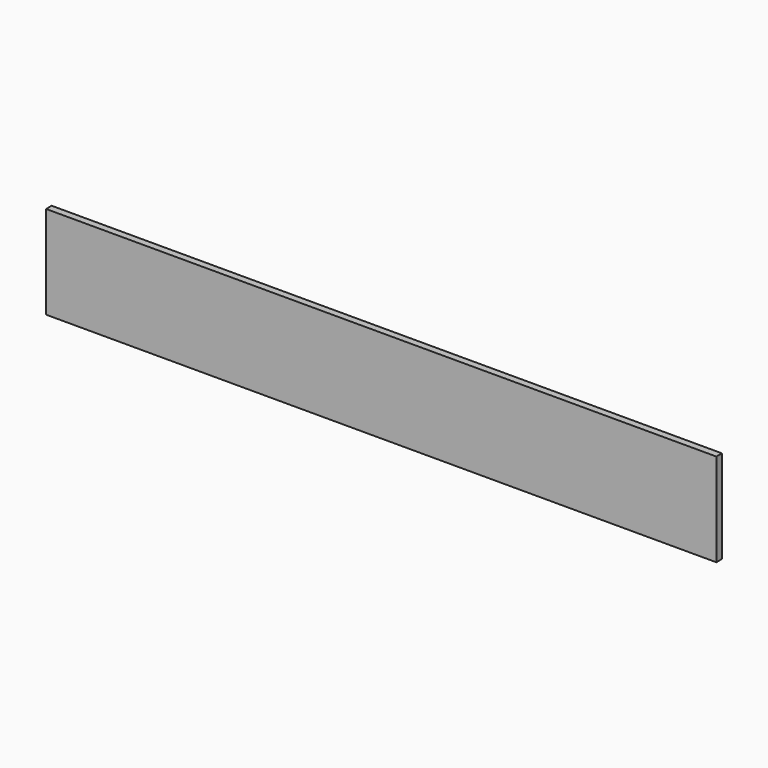
from build123d import *

# Parameters (mm, degrees)
CYLINDER010_R          = 2.1
CYLINDER010_DEPTH      = 1.5
CYLINDER010_ROLL_ANGLE = 90
CYLINDER008_R          = 2.1
CYLINDER008_DEPTH      = 1.5
CYLINDER008_ROLL_ANGLE = 90
CYLINDER011_R          = 2.1
CYLINDER011_DEPTH      = 1.5
CYLINDER011_ROLL_ANGLE = 90
CYLINDER013_R          = 2.1
CYLINDER013_DEPTH      = 1.5
CYLINDER013_ROLL_ANGLE = 90
CYLINDER012_R          = 2.1
CYLINDER012_DEPTH      = 1.5
CYLINDER012_ROLL_ANGLE = 90
CYLINDER014_R          = 2.1
CYLINDER014_DEPTH      = 1.5
CYLINDER014_ROLL_ANGLE = 90
CYLINDER009_R          = 2.1
CYLINDER009_DEPTH      = 1.5
CYLINDER009_ROLL_ANGLE = 90
CYLINDER_R             = 2.1
CYLINDER_DEPTH         = 1.5
CYLINDER_ROLL_ANGLE    = 90
BOX006_W               = 72
BOX006_H               = 0.75
BOX006_DEPTH           = 10


with BuildPart() as cylinder004:
    # Cylinder010 → Cylinder010 (new body)
    with BuildSketch(Plane.XY):
        Circle(CYLINDER010_R)
    extrude(amount=CYLINDER010_DEPTH)


with BuildPart() as cylinder004_1:
    # Cylinder010 roll: moved
    add(cylinder004.part.rotate(Axis((0, 0, 0), (1, 0, 0)), CYLINDER010_ROLL_ANGLE))


with BuildPart() as cylinder004_2:
    # Cylinder010 placement: moved
    add(cylinder004_1.part.moved(Location((39.72, -0.5, 15.6))))


with BuildPart() as cylinder002:
    # Cylinder008 → Cylinder008 (new body)
    with BuildSketch(Plane.XY):
        Circle(CYLINDER008_R)
    extrude(amount=CYLINDER008_DEPTH)


with BuildPart() as cylinder002_1:
    # Cylinder008 roll: moved
    add(cylinder002.part.rotate(Axis((0, 0, 0), (1, 0, 0)), CYLINDER008_ROLL_ANGLE))


with BuildPart() as cylinder002_2:
    # Cylinder008 placement: moved
    add(cylinder002_1.part.moved(Location((21.72, -0.5, 15.6))))


with BuildPart() as cylinder005:
    # Cylinder011 → Cylinder011 (new body)
    with BuildSketch(Plane.XY):
        Circle(CYLINDER011_R)
    extrude(amount=CYLINDER011_DEPTH)


with BuildPart() as cylinder005_1:
    # Cylinder011 roll: moved
    add(cylinder005.part.rotate(Axis((0, 0, 0), (1, 0, 0)), CYLINDER011_ROLL_ANGLE))


with BuildPart() as cylinder005_2:
    # Cylinder011 placement: moved
    add(cylinder005_1.part.moved(Location((48.72, -0.5, 15.6))))


with BuildPart() as cylinder007:
    # Cylinder013 → Cylinder013 (new body)
    with BuildSketch(Plane.XY):
        Circle(CYLINDER013_R)
    extrude(amount=CYLINDER013_DEPTH)


with BuildPart() as cylinder007_1:
    # Cylinder013 roll: moved
    add(cylinder007.part.rotate(Axis((0, 0, 0), (1, 0, 0)), CYLINDER013_ROLL_ANGLE))


with BuildPart() as cylinder007_2:
    # Cylinder013 placement: moved
    add(cylinder007_1.part.moved(Location((66.72, -0.5, 15.6))))


with BuildPart() as cylinder006:
    # Cylinder012 → Cylinder012 (new body)
    with BuildSketch(Plane.XY):
        Circle(CYLINDER012_R)
    extrude(amount=CYLINDER012_DEPTH)


with BuildPart() as cylinder006_1:
    # Cylinder012 roll: moved
    add(cylinder006.part.rotate(Axis((0, 0, 0), (1, 0, 0)), CYLINDER012_ROLL_ANGLE))


with BuildPart() as cylinder006_2:
    # Cylinder012 placement: moved
    add(cylinder006_1.part.moved(Location((57.72, -0.5, 15.6))))


with BuildPart() as cylinder008:
    # Cylinder014 → Cylinder014 (new body)
    with BuildSketch(Plane.XY):
        Circle(CYLINDER014_R)
    extrude(amount=CYLINDER014_DEPTH)


with BuildPart() as cylinder008_1:
    # Cylinder014 roll: moved
    add(cylinder008.part.rotate(Axis((0, 0, 0), (1, 0, 0)), CYLINDER014_ROLL_ANGLE))


with BuildPart() as cylinder008_2:
    # Cylinder014 placement: moved
    add(cylinder008_1.part.moved(Location((75.72, -0.5, 15.6))))


with BuildPart() as cylinder003:
    # Cylinder009 → Cylinder009 (new body)
    with BuildSketch(Plane.XY):
        Circle(CYLINDER009_R)
    extrude(amount=CYLINDER009_DEPTH)


with BuildPart() as cylinder003_1:
    # Cylinder009 roll: moved
    add(cylinder003.part.rotate(Axis((0, 0, 0), (1, 0, 0)), CYLINDER009_ROLL_ANGLE))


with BuildPart() as cylinder003_2:
    # Cylinder009 placement: moved
    add(cylinder003_1.part.moved(Location((30.72, -0.5, 15.6))))


with BuildPart() as cylinder001:
    # Cylinder → Cylinder (new body)
    with BuildSketch(Plane.XY):
        Circle(CYLINDER_R)
    extrude(amount=CYLINDER_DEPTH)


with BuildPart() as cylinder001_1:
    # Cylinder roll: moved
    add(cylinder001.part.rotate(Axis((0, 0, 0), (1, 0, 0)), CYLINDER_ROLL_ANGLE))


with BuildPart() as cylinder001_2:
    # Cylinder placement: moved
    add(cylinder001_1.part.moved(Location((12.72, -0.5, 15.6))))


with BuildPart() as fusion003005009011:
    # Box006 → Box006 (new body)
    with BuildSketch(Plane(origin=(8.22, -2, 10.6), x_dir=(1, 0, 0), z_dir=(0, 0, 1))):
        with Locations((36, 0.375)):
            Rectangle(BOX006_W, BOX006_H)
    extrude(amount=BOX006_DEPTH)

    # Fusion003005009011: union Cylinder004, Cylinder002, Cylinder005, Cylinder007, Cylinder006, Cylinder008, Cylinder003, Cylinder001
    add(cylinder004_2.part)
    add(cylinder002_2.part)
    add(cylinder005_2.part)
    add(cylinder007_2.part)
    add(cylinder006_2.part)
    add(cylinder008_2.part)
    add(cylinder003_2.part)
    add(cylinder001_2.part)


solid = fusion003005009011.part
